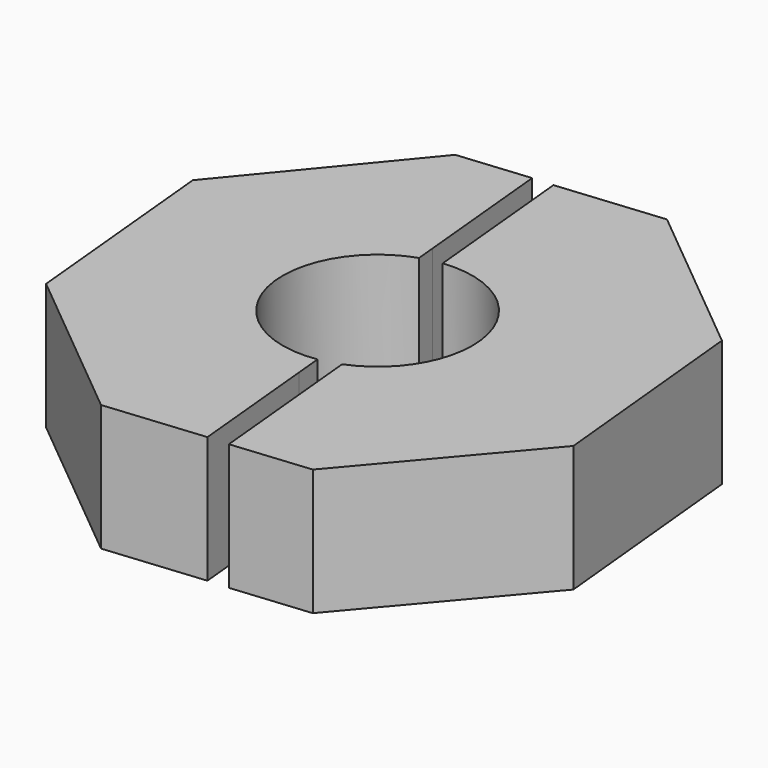
from build123d import *

# Parameters (mm, degrees)
F1_DEPTH = 12


with BuildPart() as f1:
    # F0 (on Top) → F1 (new body)
    with BuildSketch(Plane.XY):
        with BuildLine():
            ThreePointArc((-3.397688, -6.477198), (-13.545036, 0.257976), (-7.690062, 10.93742))
            Line((-7.690062, 10.93742), (-7.865827, 12.767737))
            Line((-7.865827, 12.767737), (-9.154391, 26.186067))
            Line((-9.154391, 26.186067), (-15.937662, 25.534669))
            Line((-15.937662, 25.534669), (-28.580804, 10.205324))
            Line((-28.580804, 10.205324), (-26.681373, -9.574211))
            Line((-26.681373, -9.574211), (-11.352029, -22.217354))
            Line((-11.352029, -22.217354), (-1.972654, -21.316651))
            Line((-1.972654, -21.316651), (-3.159916, -8.953218))
            Line((-3.159916, -8.953218), (-3.397688, -6.477198))
        make_face()
        with BuildLine():
            Line((18.122257, 14.602686), (2.792913, 27.245828))
            Line((2.792913, 27.245828), (-7.215111, 26.284757))
            Line((-7.215111, 26.284757), (-6.049431, 14.14607))
            Line((-6.049431, 14.14607), (-5.781774, 11.358852))
            ThreePointArc((-5.781774, 11.358852), (1.202724, 9.111727), (4.193434, 2.411843))
            ThreePointArc((4.193434, 2.411843), (2.63956, -2.643372), (-1.4855, -5.952995))
            Line((-1.4855, -5.952995), (-1.242973, -8.478526))
            Line((-1.242973, -8.478526), (-0.01973, -21.216651))
            Line((-0.01973, -21.216651), (7.378545, -20.506194))
            Line((7.378545, -20.506194), (20.091543, -5.4801))
            Line((20.091543, -5.4801), (18.122257, 14.602686))
        make_face()
    extrude(amount=F1_DEPTH)


solid = f1.part
